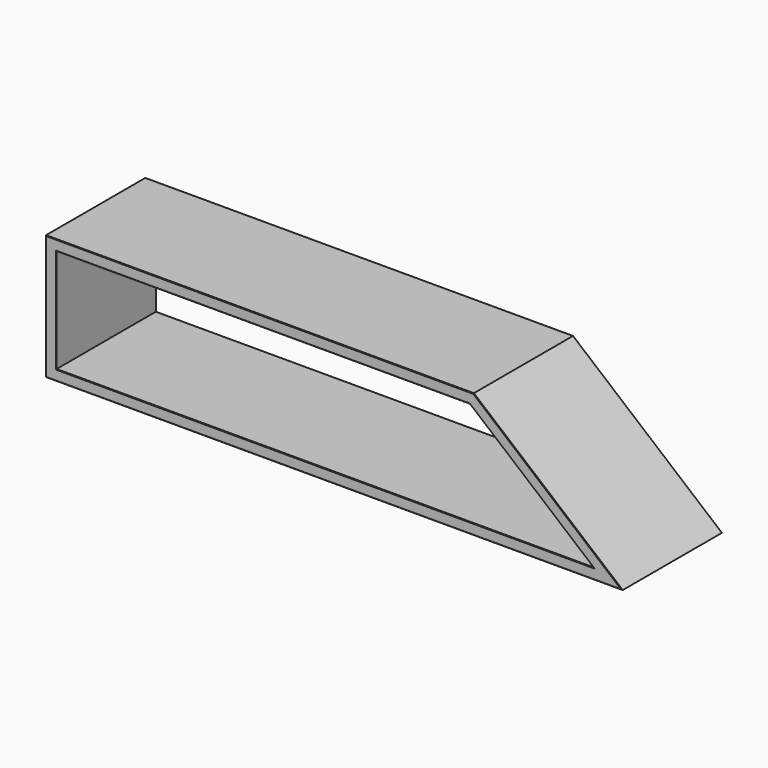
from build123d import *

# Parameters (mm, degrees)
F1_DEPTH = 260
F2_SIZE  = 1


with BuildPart() as f1:
    # F0 (on Front) → F1 (new body)
    with BuildSketch(Plane.XZ):
        Polygon((0, 260), (0, 0), (1200, 0), (890.144066, 260), align=None)
        Polygon((22, 22), (22, 238), (882.136721, 238), (1139.555497, 22), align=None, mode=Mode.SUBTRACT)
    extrude(amount=F1_DEPTH)

    # F2
    f2_edges = [f1.edges().sort_by_distance(p)[0] for p in [
        (445.072033, -260, 260),
        (452.06836, -260, 238),
        (580.777748, -260, 22),
        (600, -260, 0),
        (0, -260, 130),
        (22, -260, 130),
        (1045.072033, -260, 130),
        (1010.846109, -260, 130),
        (580.777748, 0, 22),
        (445.072033, 0, 260),
        (1045.072033, 0, 130),
        (1010.846109, 0, 130),
        (452.06836, 0, 238),
        (0, 0, 130),
        (22, 0, 130),
        (600, 0, 0),
    ]]
    chamfer(f2_edges, length=F2_SIZE)


solid = f1.part
